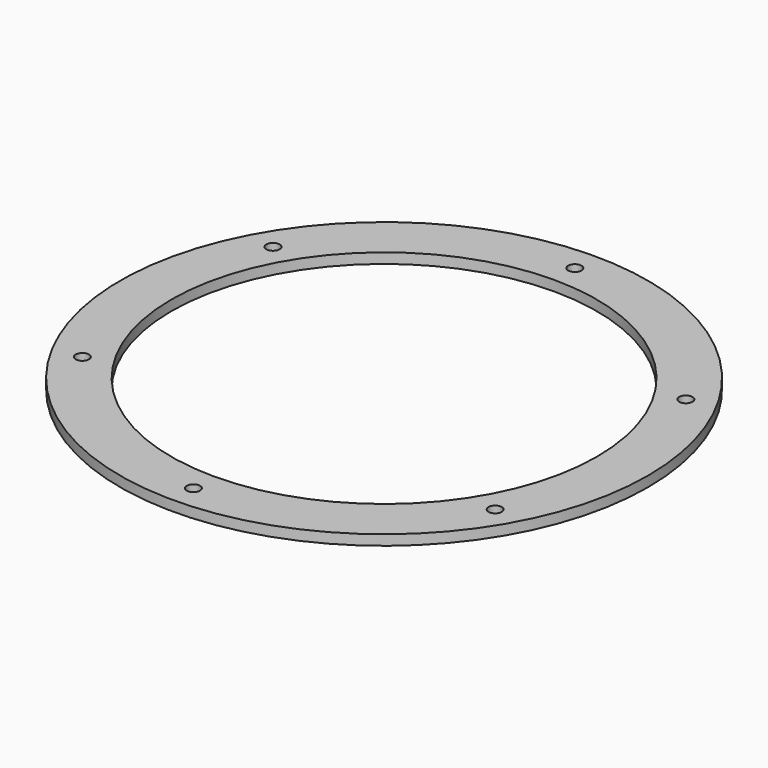
from build123d import *

# Parameters (mm, degrees)
F0_R     = 129
F0_R_2   = 3.25
F0_R_3   = 104
F1_DEPTH = 5


with BuildPart() as f1:
    # F0 (on Top) → F1 (new body)
    with BuildSketch(Plane.XY):
        Circle(F0_R)
        with Locations((-100.89196, -58.25)):
            Circle(F0_R_2, mode=Mode.SUBTRACT)
        with Locations((0, -116.5)):
            Circle(F0_R_2, mode=Mode.SUBTRACT)
        with Locations((100.89196, -58.25)):
            Circle(F0_R_2, mode=Mode.SUBTRACT)
        with Locations((-100.89196, 58.25)):
            Circle(F0_R_2, mode=Mode.SUBTRACT)
        Circle(F0_R_3, mode=Mode.SUBTRACT)
        with Locations((100.89196, 58.25)):
            Circle(F0_R_2, mode=Mode.SUBTRACT)
        with Locations((0, 116.5)):
            Circle(F0_R_2, mode=Mode.SUBTRACT)
    extrude(amount=F1_DEPTH)


solid = f1.part
